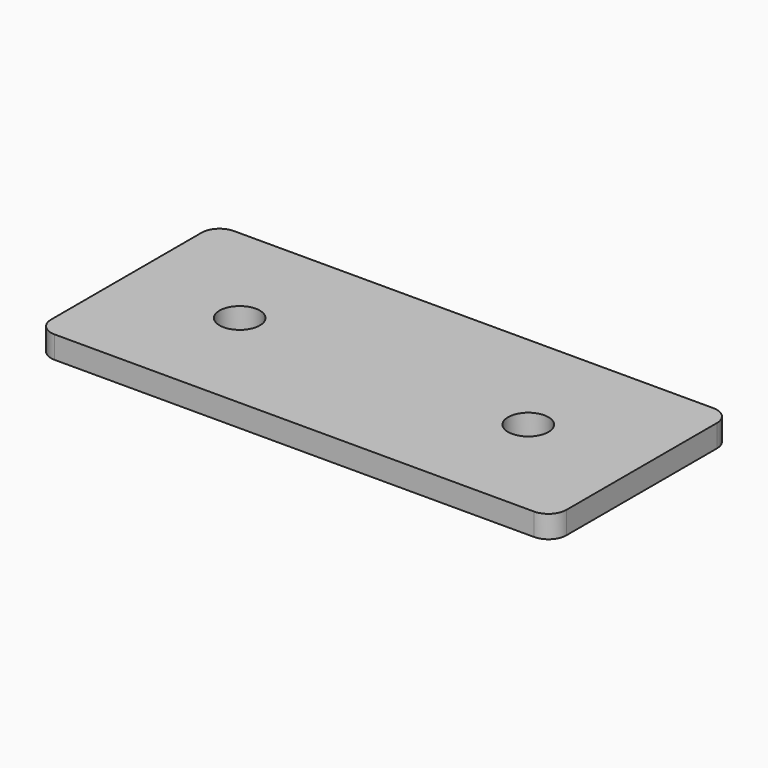
from build123d import *

# Parameters (mm, degrees)
F0_W     = 115
F0_H     = 50
F0_R     = 4.5
F1_DEPTH = 5
F2_R     = 4


with BuildPart() as f1:
    # F0 (on Top) → F1 (new body)
    with BuildSketch(Plane.XY):
        with Locations((57.5, 25)):
            Rectangle(F0_W, F0_H)
        with Locations((25.3, 25)):
            Circle(F0_R, mode=Mode.SUBTRACT)
        with Locations((89.7, 25)):
            Circle(F0_R, mode=Mode.SUBTRACT)
    extrude(amount=-F1_DEPTH)

    # F2
    f2_edges = [f1.edges().sort_by_distance(p)[0] for p in [
        (115, 0, -2.5),
        (0, 0, -2.5),
        (115, 50, -2.5),
        (0, 50, -2.5),
    ]]
    fillet(f2_edges, radius=F2_R)


solid = f1.part
